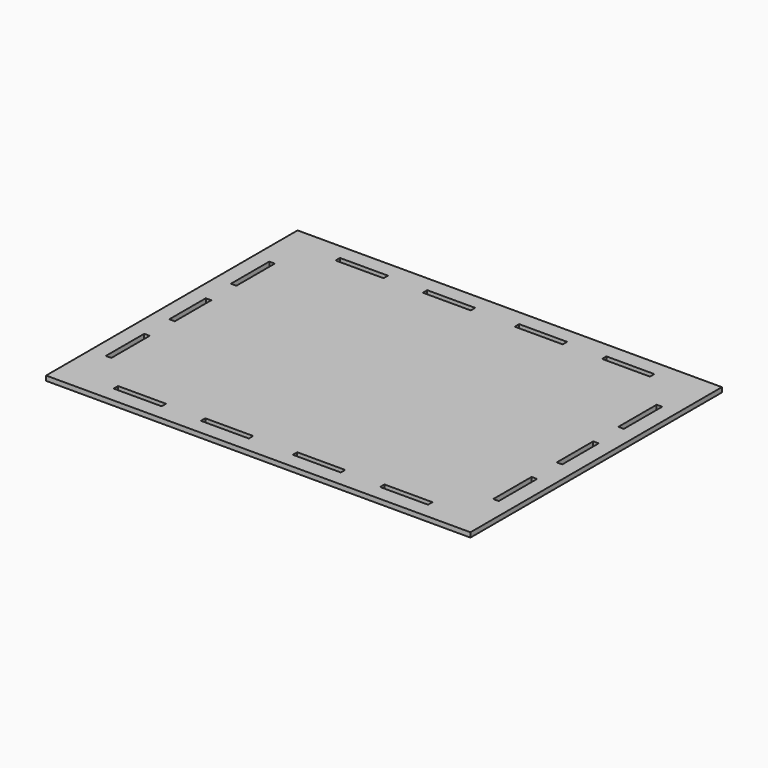
from build123d import *

# Parameters (mm, degrees)
F0_W     = 270
F0_H     = 200
F1_DEPTH = 3
F2_W     = 30.5
F2_H     = 3.5
F2_W_2   = 3.5
F2_H_2   = 30.5
F2_H_3   = 29
F3_DEPTH = 3


with BuildPart() as f1:
    # F0 (on Top) → F1 (new body)
    with BuildSketch(Plane.XY):
        Rectangle(F0_W, F0_H)
    extrude(amount=F1_DEPTH)

    # F2 (on face) → F3 (cut)
    with BuildSketch(Plane.XY.offset(3)):
        with Locations((84.75, 88.25)):
            Rectangle(F2_W, F2_H)
        with Locations((29.25, 88.25)):
            Rectangle(F2_W, F2_H)
        with Locations((123.25, 49.75)):
            Rectangle(F2_W_2, F2_H_2)
        with Locations((-84.75, 88.25)):
            Rectangle(F2_W, F2_H)
        with Locations((-29.25, 88.25)):
            Rectangle(F2_W, F2_H)
        Polygon((-84.75, -88.25), (-100, -90), (-84.75, -90), align=None)
        Polygon((-100, -86.5), (-100, -90), (-84.75, -88.25), align=None)
        Polygon((-69.5, -86.5), (-100, -86.5), (-84.75, -88.25), align=None)
        Polygon((-84.75, -88.25), (-84.75, -90), (-69.5, -90), align=None)
        Polygon((-69.5, -86.5), (-84.75, -88.25), (-69.5, -90), align=None)
        with Locations((29.25, -88.25)):
            Rectangle(F2_W, F2_H)
        Polygon((-29.25, -88.25), (-44.5, -90), (-29.25, -90), align=None)
        Polygon((-44.5, -86.5), (-44.5, -90), (-29.25, -88.25), align=None)
        Polygon((-14, -86.5), (-44.5, -86.5), (-29.25, -88.25), align=None)
        Polygon((-29.25, -88.25), (-29.25, -90), (-14, -90), align=None)
        Polygon((-14, -86.5), (-29.25, -88.25), (-14, -90), align=None)
        with Locations((84.75, -88.25)):
            Rectangle(F2_W, F2_H)
        with Locations((123.25, -49.75)):
            Rectangle(F2_W_2, F2_H_2)
        with Locations((-123.25, -49.75)):
            Rectangle(F2_W_2, F2_H_2)
        with Locations((-123.25, 49.75)):
            Rectangle(F2_W_2, F2_H_2)
        with Locations((123.25, 0)):
            Rectangle(F2_W_2, F2_H_3)
        with Locations((-123.25, 0)):
            Rectangle(F2_W_2, F2_H_3)
    extrude(amount=-F3_DEPTH, mode=Mode.SUBTRACT)


solid = f1.part
